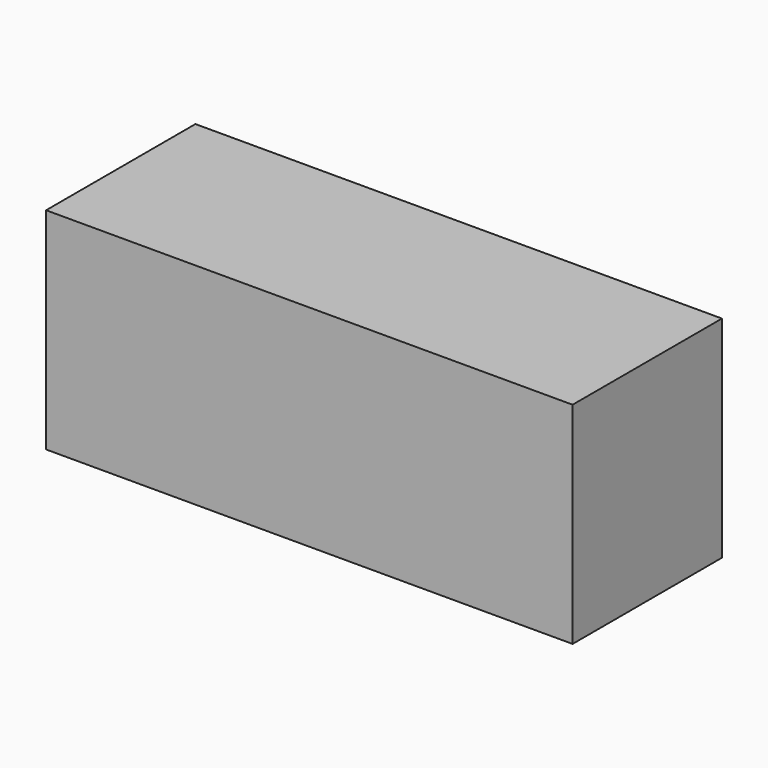
from build123d import *

# Parameters (mm, degrees)
F0_W     = 110
F0_H     = 44
F1_DEPTH = 39
F2_W     = 36
F2_H     = 20
F3_DEPTH = 109


with BuildPart() as f1:
    # F0 (on Front) → F1 (new body)
    with BuildSketch(Plane.XZ):
        Rectangle(F0_W, F0_H)
    extrude(amount=F1_DEPTH)

    # F2 (on face) → F3 (cut)
    with BuildSketch(Plane(origin=(-55, 0, 0), x_dir=(0, -1, 0), z_dir=(-1, 0, 0))):
        with Locations((19.5, 10.5)):
            Rectangle(F2_W, F2_H)
        with Locations((19.5, -10.5)):
            Rectangle(F2_W, F2_H)
    extrude(amount=-F3_DEPTH, mode=Mode.SUBTRACT)


solid = f1.part
